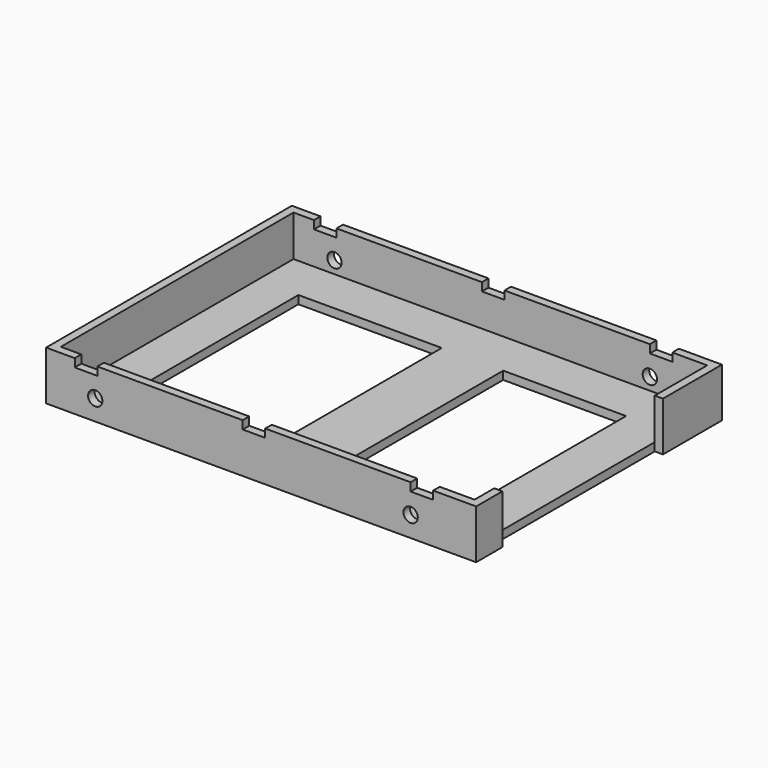
from build123d import *

# Parameters (mm, degrees)
F0_W      = 101
F0_H      = 2
F1_DEPTH  = 12
F0_H_2    = 71
F2_DEPTH  = 2
F4_R      = 1.75
F5_DEPTH  = 100
F3_W      = 49
F3_H      = 12
F6_DEPTH  = 2
F7_W      = 35
F7_H      = 50
F7_W_2    = 30
F8_DEPTH  = 2
F9_W      = 5.5
F9_H      = 2
F10_DEPTH = 80


with BuildPart() as f1:
    # F0 (on Top) → F1 (new body)
    with BuildSketch(Plane.XY):
        Polygon((-42.37669, -41.099664), (-42.37669, 29.900336), (-42.37669, 31.900336), (-44.37669, 31.900336), (-44.37669, -43.099664), (-42.37669, -43.099664), align=None)
        with Locations((8.12331, 30.900336)):
            Rectangle(F0_W, F0_H)
        Polygon((58.62331, 31.900336), (58.62331, 29.900336), (58.62331, -41.099664), (58.62331, -43.099664), (60.62331, -43.099664), (60.62331, 31.900336), align=None)
        with Locations((8.12331, -42.099664)):
            Rectangle(F0_W, F0_H)
    extrude(amount=F1_DEPTH)

    # F0 (on Top) → F2 (join)
    with BuildSketch(Plane.XY):
        with Locations((8.12331, -5.599664)):
            Rectangle(F0_W, F0_H_2)
    extrude(amount=F2_DEPTH)

    # F4 (on face) → F5 (cut)
    with BuildSketch(Plane.XZ.offset(43.099664)):
        with Locations((44.623323, 5.000008)):
            Circle(F4_R)
        with Locations((-32.376677, 5.000008)):
            Circle(F4_R)
    extrude(amount=-F5_DEPTH, mode=Mode.SUBTRACT)

    # F3 (on face) → F6 (cut)
    with BuildSketch(Plane.YZ.offset(60.62331)):
        with Locations((-10.59967, 6)):
            Rectangle(F3_W, F3_H)
        with Locations((-10.59967, 6)):
            Rectangle(F3_W, F3_H)
    extrude(amount=-F6_DEPTH, mode=Mode.SUBTRACT)

    # F7 (on face) → F8 (cut)
    with BuildSketch(Plane.XY.offset(2)):
        with Locations((-14.876692, -6.099655)):
            Rectangle(F7_W, F7_H)
        with Locations((32.623308, -6.099655)):
            Rectangle(F7_W_2, F7_H)
    extrude(amount=-F8_DEPTH, mode=Mode.SUBTRACT)

    # F9 (on face) → F10 (cut)
    with BuildSketch(Plane.XZ.offset(43.099664)):
        with Locations((-34.626723, 11.000004)):
            Rectangle(F9_W, F9_H)
        with Locations((6.373277, 11.000004)):
            Rectangle(F9_W, F9_H)
        with Locations((47.373277, 11.000004)):
            Rectangle(F9_W, F9_H)
    extrude(amount=-F10_DEPTH, mode=Mode.SUBTRACT)


solid = f1.part
